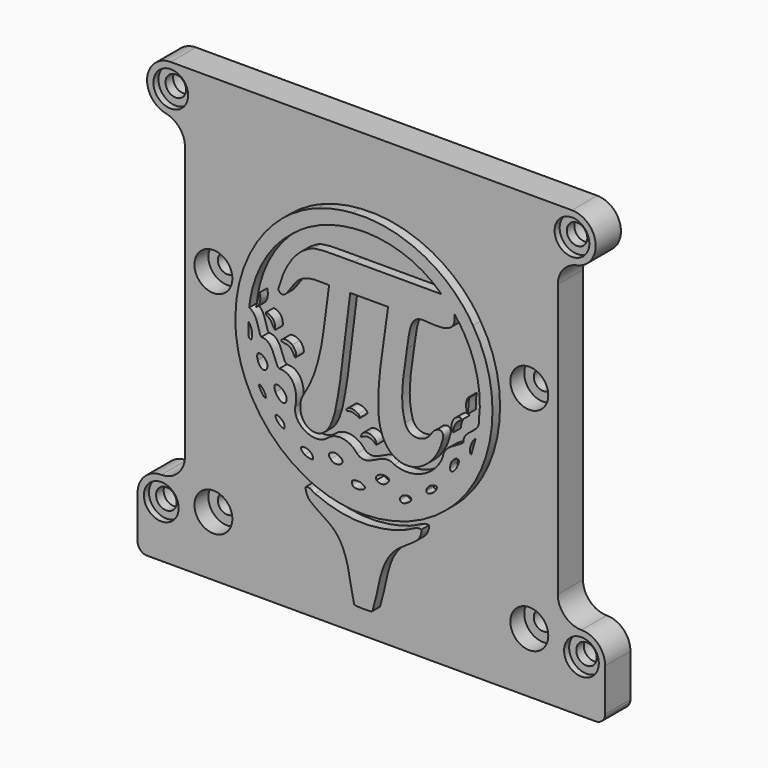
from build123d import *

# Parameters (mm, degrees)
PAD_DEPTH       = 10
FILLET_R        = 3
SKETCH003_W     = 71
SKETCH003_H     = 7
POCKET_DEPTH    = 3
SKETCH004_W     = 56
SKETCH004_H     = 3.5
POCKET001_DEPTH = 3
SKETCH007_R     = 3.25
POCKET003_DEPTH = 10.001
SKETCH008_R     = 4.5
POCKET004_DEPTH = 5
SKETCH009_R     = 3
POCKET005_DEPTH = 10.001
SKETCH013_R     = 5.5
POCKET006_DEPTH = 2
SKETCH014_R     = 6
POCKET007_DEPTH = 5.5
PAD001_DEPTH    = 3


with BuildPart() as part:
    # Sketch → Pad (new body)
    with BuildSketch(Plane.XZ):
        with BuildLine():
            Line((0, -70), (74, -70))
            Line((74, -70), (74, -53.5))
            ThreePointArc((74, -53.5), (71.803301, -48.196699), (66.5, -46))
            ThreePointArc((59, -38.5), (61.196699, -43.803301), (66.5, -46))
            Line((59, -38.5), (59, 47.803062))
            ThreePointArc((65, 55.151531), (60.690525, 52.546478), (59, 47.803062))
            ThreePointArc((65, 55.151531), (70.962021, 63.253817), (63.5, 70))
            Line((63.5, 70), (0, 70))
            Line((0, 70), (0, -70))
        make_face()
    extrude(amount=PAD_DEPTH)

    # Fillet
    fillet_edges = [part.edges().sort_by_distance(p)[0] for p in [
        (74, -5, -70),
    ]]
    fillet(fillet_edges, radius=FILLET_R)

    # Sketch003 → Pocket (cut)
    with BuildSketch(Plane(origin=(0, 0, 0), x_dir=(1, 0, 0), z_dir=(0, 1, 0))):
        with Locations((35.5, 63.5)):
            Rectangle(SKETCH003_W, SKETCH003_H)
    extrude(amount=-POCKET_DEPTH, mode=Mode.SUBTRACT)

    # Sketch004 (on Face2 of Pocket) → Pocket001 (cut)
    with BuildSketch(Plane(origin=(0, 0, 0), x_dir=(1, 0, 0), z_dir=(0, 1, 0))):
        with Locations((28, -65.25)):
            Rectangle(SKETCH004_W, SKETCH004_H)
    extrude(amount=-POCKET001_DEPTH, mode=Mode.SUBTRACT)

    # Sketch007 → Pocket003 (cut, through all)
    with BuildSketch(Plane.XZ.offset(10)):
        with Locations((63.5, 62.5)):
            Circle(SKETCH007_R)
        with Locations((66.5, -53.5)):
            Circle(SKETCH007_R)
    extrude(amount=-POCKET003_DEPTH, mode=Mode.SUBTRACT)

    # Sketch008 (on Face2 of Pocket003) → Pocket004 (cut)
    with BuildSketch(Plane(origin=(0, 0, 0), x_dir=(1, 0, 0), z_dir=(0, 1, 0))):
        with Locations((63.5, -62.5)):
            Circle(SKETCH008_R)
        with Locations((66.5, 53.5)):
            Circle(SKETCH008_R)
    extrude(amount=-POCKET004_DEPTH, mode=Mode.SUBTRACT)

    # Sketch009 (on Face2 of Pocket004) → Pocket005 (cut, through all)
    with BuildSketch(Plane(origin=(0, 0, 0), x_dir=(1, 0, 0), z_dir=(0, 1, 0))):
        with Locations((50, 51)):
            Circle(SKETCH009_R)
        with Locations((50, -16)):
            Circle(SKETCH009_R)
    extrude(amount=-POCKET005_DEPTH, mode=Mode.SUBTRACT)

    # Sketch013 (on Face5 of Pocket005) → Pocket006 (cut)
    with BuildSketch(Plane.XZ.offset(10)):
        with Locations((63.5, 62.5)):
            Circle(SKETCH013_R)
        with Locations((66.5, -53.5)):
            Circle(SKETCH013_R)
    extrude(amount=-POCKET006_DEPTH, mode=Mode.SUBTRACT)

    # Sketch014 (on Face5 of Pocket006) → Pocket007 (cut)
    with BuildSketch(Plane.XZ.offset(10)):
        with Locations((50, 16)):
            Circle(SKETCH014_R)
        with Locations((50, -51)):
            Circle(SKETCH014_R)
    extrude(amount=-POCKET007_DEPTH, mode=Mode.SUBTRACT)

    # Mirrored: part across YZ


with BuildPart() as part_1:
    add(part.part)
    add(part.part.mirror(Plane.YZ))

    # Sketch015 (on Face53 of Mirrored) → Pad001 (join)
    with BuildSketch(Plane.XZ.offset(10)):
        with BuildLine():
            add(Edge.make_bspline(
                [(-3.54702, 48.6755), (11.354, 49.9365), (26.7371, 42.5775), (34.5548, 29.7245)],
                knots=[0, 0, 0, 0, 1, 1, 1, 1], degree=3))
            add(Edge.make_bspline(
                [(34.5548, 29.7245), (45.3795, 12.8205), (41.6429, -11.6595), (26.1343, -24.4545)],
                knots=[0, 0, 0, 0, 1, 1, 1, 1], degree=3))
            add(Edge.make_bspline(
                [(26.1343, -24.4545), (14.0333, -34.9755), (-4.56552, -37.4015), (-18.6996, -29.5935)],
                knots=[0, 0, 0, 0, 1, 1, 1, 1], degree=3))
            add(Edge.make_bspline(
                [(-18.6996, -29.5935), (-32.2816, -22.5035), (-41.0956, -7.44449), (-40.6133, 7.8715)],
                knots=[0, 0, 0, 0, 1, 1, 1, 1], degree=3))
            add(Edge.make_bspline(
                [(-40.6133, 7.8715), (-40.5527, 24.3435), (-30.3051, 40.8905), (-14.4562, 46.4165)],
                knots=[0, 0, 0, 0, 1, 1, 1, 1], degree=3))
            add(Edge.make_bspline(
                [(-14.4562, 46.4165), (-10.9519, 47.6845), (-7.26362, 48.4265), (-3.54702, 48.6755)],
                knots=[0, 0, 0, 0, 1, 1, 1, 1], degree=3))
        make_face()
        with BuildLine():
            add(Edge.make_bspline(
                [(24.5915, 35.1745), (12.0188, 47.2425), (-9.43811, 47.7455), (-22.7442, 36.5815)],
                knots=[0, 0, 0, 0, 1, 1, 1, 1], degree=3))
            add(Edge.make_bspline(
                [(-22.7442, 36.5815), (-30.4572, 30.5925), (-35.3308, 21.3285), (-36.2719, 11.6475)],
                knots=[0, 0, 0, 0, 1, 1, 1, 1], degree=3))
            add(Edge.make_bspline(
                [(-36.2719, 11.6475), (-33.418, 10.3105), (-33.6197, 6.1765), (-32.4947, 4.6795)],
                knots=[0, 0, 0, 0, 1, 1, 1, 1], degree=3))
            add(Edge.make_bspline(
                [(-32.4947, 4.6795), (-28.2821, 4.7865), (-28.4583, -1.2075), (-26.7812, -2.2895)],
                knots=[0, 0, 0, 0, 1, 1, 1, 1], degree=3))
            add(Edge.make_bspline(
                [(-26.7812, -2.2895), (-22.005, -2.0605), (-20.7061, -7.59549), (-21.721, -11.3065)],
                knots=[0, 0, 0, 0, 1, 1, 1, 1], degree=3))
            add(Edge.make_bspline(
                [(-21.721, -11.3065), (-22.2473, -16.3985), (-15.6726, -19.7765), (-11.6669, -16.8185)],
                knots=[0, 0, 0, 0, 1, 1, 1, 1], degree=3))
            add(Edge.make_bspline(
                [(-11.6669, -16.8185), (-8.84581, -14.0895), (-4.36902, -14.8805), (-2.14842, -17.9405)],
                knots=[0, 0, 0, 0, 1, 1, 1, 1], degree=3))
            add(Edge.make_bspline(
                [(-2.14842, -17.9405), (1.67729, -21.3905), (5.45828, -14.3855), (9.68906, -17.1675)],
                knots=[0, 0, 0, 0, 1, 1, 1, 1], degree=3))
            add(Edge.make_bspline(
                [(9.68906, -17.1675), (15.6699, -19.6005), (22.8692, -15.9845), (25.027, -10.0135)],
                knots=[0, 0, 0, 0, 1, 1, 1, 1], degree=3))
            add(Edge.make_bspline(
                [(25.027, -10.0135), (25.5284, -6.2405), (29.8815, -5.6765), (31.5063, -3.8625)],
                knots=[0, 0, 0, 0, 1, 1, 1, 1], degree=3))
            add(Edge.make_bspline(
                [(31.5063, -3.8625), (31.5704, 0.031502), (36.6966, 0.062502), (36.4254, 3.5875)],
                knots=[0, 0, 0, 0, 1, 1, 1, 1], degree=3))
            add(Edge.make_bspline(
                [(36.4254, 3.5875), (37.741, 13.2945), (34.88, 23.5025), (28.6178, 31.0475)],
                knots=[0, 0, 0, 0, 1, 1, 1, 1], degree=3))
            add(Edge.make_bspline(
                [(28.6178, 31.0475), (29.8404, 24.6275), (22.8123, 25.9035), (18.7781, 26.0615)],
                knots=[0, 0, 0, 0, 1, 1, 1, 1], degree=3))
            add(Edge.make_bspline(
                [(18.7781, 26.0615), (14.4084, 26.1415), (14.4902, 21.1145), (13.6768, 16.4545)],
                knots=[0, 0, 0, 0, 1, 1, 1, 1], degree=3))
            add(Edge.make_bspline(
                [(13.6768, 16.4545), (12.7771, 9.4845), (11.0725, 2.42451), (13.0734, -4.4275)],
                knots=[0, 0, 0, 0, 1, 1, 1, 1], degree=3))
            add(Edge.make_bspline(
                [(13.0734, -4.4275), (14.197, -8.2745), (19.0558, -8.1655), (21.2104, -5.0405)],
                knots=[0, 0, 0, 0, 1, 1, 1, 1], degree=3))
            add(Edge.make_bspline(
                [(21.2104, -5.0405), (22.8586, -1.9515), (26.2022, -2.1625), (24.8171, -5.6645)],
                knots=[0, 0, 0, 0, 1, 1, 1, 1], degree=3))
            add(Edge.make_bspline(
                [(24.8171, -5.6645), (23.477, -11.3165), (18.2389, -17.2155), (11.8706, -15.9285)],
                knots=[0, 0, 0, 0, 1, 1, 1, 1], degree=3))
            add(Edge.make_bspline(
                [(11.8706, -15.9285), (6.04148, -14.4335), (4.49368, -7.66449), (4.64438, -2.4315)],
                knots=[0, 0, 0, 0, 1, 1, 1, 1], degree=3))
            add(Edge.make_bspline(
                [(4.64438, -2.4315), (4.37088, 7.2025), (6.70068, 16.6135), (7.690685, 26.139366)],
                knots=[0, 0, 0, 0, 1, 1, 1, 1], degree=3))
            Line((7.690685, 26.139366), (-4.295715, 26.139366))
            add(Edge.make_bspline(
                [(-4.295715, 26.139366), (-5.96042, 14.5205), (-6.67002, 2.73951), (-9.15121, -8.7465)],
                knots=[0, 0, 0, 0, 1, 1, 1, 1], degree=3))
            add(Edge.make_bspline(
                [(-9.15121, -8.7465), (-9.99571, -11.9685), (-11.621, -16.7665), (-15.7745, -16.3545)],
                knots=[0, 0, 0, 0, 1, 1, 1, 1], degree=3))
            add(Edge.make_bspline(
                [(-15.7745, -16.3545), (-20.0093, -15.7955), (-21.1894, -10.2795), (-19.0926, -7.0705)],
                knots=[0, 0, 0, 0, 1, 1, 1, 1], degree=3))
            add(Edge.make_bspline(
                [(-19.0926, -7.0705), (-12.7693, 2.82551), (-12.7548, 14.9195), (-10.9747, 26.1375)],
                knots=[0, 0, 0, 0, 1, 1, 1, 1], degree=3))
            add(Edge.make_bspline(
                [(-10.9747, 26.1375), (-14.2385, 26.1835), (-17.8584, 26.6065), (-20.5893, 24.4235)],
                knots=[0, 0, 0, 0, 1, 1, 1, 1], degree=3))
            add(Edge.make_bspline(
                [(-20.5893, 24.4235), (-22.9099, 22.7715), (-25.0281, 16.1475), (-27.0962, 19.7735)],
                knots=[0, 0, 0, 0, 1, 1, 1, 1], degree=3))
            add(Edge.make_bspline(
                [(-27.0962, 19.7735), (-25.5139, 25.6615), (-22.2609, 32.5885), (-15.8704, 34.7715)],
                knots=[0, 0, 0, 0, 1, 1, 1, 1], degree=3))
            add(Edge.make_bspline(
                [(-15.8704, 34.7715), (-11.6587, 35.5575), (-7.31612, 35.0195), (-3.04422, 35.1785)],
                knots=[0, 0, 0, 0, 1, 1, 1, 1], degree=3))
            add(Edge.make_bspline(
                [(-3.04422, 35.1785), (6.16688, 35.1755), (15.3844, 35.1835), (24.5915, 35.1745)],
                knots=[0, 0, 0, 0, 1, 1, 1, 1], degree=3))
        make_face(mode=Mode.SUBTRACT)
        with BuildLine():
            add(Edge.make_bspline(
                [(-36.5195, 7.6645), (-36.3167, 6.2335), (-37.0896, 2.81351), (-35.6352, 2.95051)],
                knots=[0, 0, 0, 0, 1, 1, 1, 1], degree=3))
            add(Edge.make_bspline(
                [(-35.6352, 2.95051), (-34.9121, 4.3975), (-35.4662, 6.5095), (-36.5195, 7.6645)],
                knots=[0, 0, 0, 0, 1, 1, 1, 1], degree=3))
        make_face(mode=Mode.SUBTRACT)
        with BuildLine():
            add(Edge.make_bspline(
                [(-30.8682, -3.8815), (-28.9685, -1.1765), (-34.9148, 2.36551), (-33.5368, -2.2145)],
                knots=[0, 0, 0, 0, 1, 1, 1, 1], degree=3))
            add(Edge.make_bspline(
                [(-33.5368, -2.2145), (-33.2426, -3.2075), (-32.0481, -5.0195), (-30.8682, -3.8815)],
                knots=[0, 0, 0, 0, 1, 1, 1, 1], degree=3))
        make_face(mode=Mode.SUBTRACT)
        with BuildLine():
            add(Edge.make_bspline(
                [(34.0215, -6.4835), (34.4799, -4.8455), (34.9385, -3.2085), (35.397, -1.5705)],
                knots=[0, 0, 0, 0, 1, 1, 1, 1], degree=3))
            add(Edge.make_bspline(
                [(35.397, -1.5705), (34.228, -2.3735), (32.8346, -5.8235), (34.0215, -6.4835)],
                knots=[0, 0, 0, 0, 1, 1, 1, 1], degree=3))
        make_face(mode=Mode.SUBTRACT)
        with BuildLine():
            add(Edge.make_bspline(
                [(-24.7767, -11.1505), (-22.8059, -8.2355), (-29.8872, -4.4345), (-27.9463, -9.2115)],
                knots=[0, 0, 0, 0, 1, 1, 1, 1], degree=3))
            add(Edge.make_bspline(
                [(-27.9463, -9.2115), (-27.4096, -10.2015), (-26.0443, -12.1015), (-24.7767, -11.1505)],
                knots=[0, 0, 0, 0, 1, 1, 1, 1], degree=3))
        make_face(mode=Mode.SUBTRACT)
        with BuildLine():
            add(Edge.make_bspline(
                [(-31.0175, -11.7865), (-30.9308, -9.6485), (-34.7406, -6.8085), (-32.5035, -10.4275)],
                knots=[0, 0, 0, 0, 1, 1, 1, 1], degree=3))
            add(Edge.make_bspline(
                [(-32.5035, -10.4275), (-32.1244, -10.8195), (-31.7651, -12.0435), (-31.0175, -11.7865)],
                knots=[0, 0, 0, 0, 1, 1, 1, 1], degree=3))
        make_face(mode=Mode.SUBTRACT)
        with BuildLine():
            add(Edge.make_bspline(
                [(29.6376, -9.0635), (26.707, -9.4655), (26.5155, -16.0125), (29.2882, -11.8095)],
                knots=[0, 0, 0, 0, 1, 1, 1, 1], degree=3))
            add(Edge.make_bspline(
                [(29.2882, -11.8095), (29.5612, -11.1455), (30.7726, -9.5075), (29.6376, -9.0635)],
                knots=[0, 0, 0, 0, 1, 1, 1, 1], degree=3))
        make_face(mode=Mode.SUBTRACT)
        with BuildLine():
            add(Edge.make_bspline(
                [(-25.1226, -18.4695), (-24.3196, -16.0335), (-29.9585, -13.6785), (-27.2356, -17.2445)],
                knots=[0, 0, 0, 0, 1, 1, 1, 1], degree=3))
            add(Edge.make_bspline(
                [(-27.2356, -17.2445), (-26.6911, -17.7945), (-26.0068, -18.6425), (-25.1226, -18.4695)],
                knots=[0, 0, 0, 0, 1, 1, 1, 1], degree=3))
        make_face(mode=Mode.SUBTRACT)
        with BuildLine():
            add(Edge.make_bspline(
                [(22.1825, -18.9015), (19.58, -19.2885), (18.4956, -23.4845), (21.9791, -20.9625)],
                knots=[0, 0, 0, 0, 1, 1, 1, 1], degree=3))
            add(Edge.make_bspline(
                [(21.9791, -20.9625), (22.649, -20.5975), (24.126, -18.4365), (22.1825, -18.9015)],
                knots=[0, 0, 0, 0, 1, 1, 1, 1], degree=3))
        make_face(mode=Mode.SUBTRACT)
        with BuildLine():
            add(Edge.make_bspline(
                [(-10.5129, -22.1345), (-8.72931, -24.4265), (-4.44802, -21.6365), (-8.23512, -20.2125)],
                knots=[0, 0, 0, 0, 1, 1, 1, 1], degree=3))
            add(Edge.make_bspline(
                [(-8.23512, -20.2125), (-9.45181, -19.5815), (-12.2087, -20.5185), (-10.5129, -22.1345)],
                knots=[0, 0, 0, 0, 1, 1, 1, 1], degree=3))
        make_face(mode=Mode.SUBTRACT)
        with BuildLine():
            add(Edge.make_bspline(
                [(4.00828, -23.3345), (6.43188, -25.5155), (10.5289, -20.6725), (5.86478, -21.2685)],
                knots=[0, 0, 0, 0, 1, 1, 1, 1], degree=3))
            add(Edge.make_bspline(
                [(5.86478, -21.2685), (4.98998, -21.3665), (3.20288, -22.1935), (4.00828, -23.3345)],
                knots=[0, 0, 0, 0, 1, 1, 1, 1], degree=3))
        make_face(mode=Mode.SUBTRACT)
        with BuildLine():
            add(Edge.make_bspline(
                [(-16.0817, -24.1665), (-15.6276, -20.9695), (-22.6108, -20.6885), (-18.6884, -23.6515)],
                knots=[0, 0, 0, 0, 1, 1, 1, 1], degree=3))
            add(Edge.make_bspline(
                [(-18.6884, -23.6515), (-17.8959, -24.0675), (-16.9755, -24.2775), (-16.0817, -24.1665)],
                knots=[0, 0, 0, 0, 1, 1, 1, 1], degree=3))
        make_face(mode=Mode.SUBTRACT)
        with BuildLine():
            add(Edge.make_bspline(
                [(13.3361, -24.6045), (10.4822, -25.0105), (11.0835, -28.3765), (13.8761, -26.4035)],
                knots=[0, 0, 0, 0, 1, 1, 1, 1], degree=3))
            add(Edge.make_bspline(
                [(13.8761, -26.4035), (15.6163, -25.6025), (15.3396, -23.9265), (13.3361, -24.6045)],
                knots=[0, 0, 0, 0, 1, 1, 1, 1], degree=3))
        make_face(mode=Mode.SUBTRACT)
        with BuildLine():
            add(Edge.make_bspline(
                [(-3.64922, -25.9875), (-4.81112, -29.4635), (3.69748, -27.0455), (-1.15682, -25.5805)],
                knots=[0, 0, 0, 0, 1, 1, 1, 1], degree=3))
            add(Edge.make_bspline(
                [(-1.15682, -25.5805), (-1.97882, -25.4765), (-2.97172, -25.4085), (-3.64922, -25.9875)],
                knots=[0, 0, 0, 0, 1, 1, 1, 1], degree=3))
        make_face(mode=Mode.SUBTRACT)
        with BuildLine():
            add(Edge.make_bspline(
                [(18.3036, -32.4215), (18.2997, -33.3795), (17.8851, -34.8515), (17.2307, -35.5745)],
                knots=[0, 0, 0, 0, 1, 1, 1, 1], degree=3))
            add(Edge.make_bspline(
                [(17.2307, -35.5745), (15.8002, -37.1585), (12.2868, -38.9465), (10.4397, -40.5735)],
                knots=[0, 0, 0, 0, 1, 1, 1, 1], degree=3))
            add(Edge.make_bspline(
                [(10.4397, -40.5735), (4.66858, -45.6595), (5.03988, -53.3285), (2.78018, -60.1785)],
                knots=[0, 0, 0, 0, 1, 1, 1, 1], degree=3))
            add(Edge.make_bspline(
                [(2.78018, -60.1785), (2.60138, -60.5125), (2.02959, -60.5065), (1.70729, -60.5305)],
                knots=[0, 0, 0, 0, 1, 1, 1, 1], degree=3))
            add(Edge.make_bspline(
                [(1.70729, -60.5305), (1.03329, -60.5775), (-2.80232, -60.6245), (-3.02242, -60.3295)],
                knots=[0, 0, 0, 0, 1, 1, 1, 1], degree=3))
            add(Edge.make_bspline(
                [(-3.02242, -60.3295), (-4.71822, -53.9865), (-4.62972, -45.8595), (-9.79371, -41.1635)],
                knots=[0, 0, 0, 0, 1, 1, 1, 1], degree=3))
            add(Edge.make_bspline(
                [(-9.79371, -41.1635), (-11.8648, -39.2785), (-15.7398, -37.3785), (-17.3707, -35.5745)],
                knots=[0, 0, 0, 0, 1, 1, 1, 1], degree=3))
            add(Edge.make_bspline(
                [(-17.3707, -35.5745), (-17.8718, -35.0185), (-18.4514, -33.4645), (-18.4495, -32.7175)],
                knots=[0, 0, 0, 0, 1, 1, 1, 1], degree=3))
            add(Edge.make_bspline(
                [(-18.4495, -32.7175), (-18.4495, -32.2025), (-17.5633, -32.3835), (-17.2096, -32.4665)],
                knots=[0, 0, 0, 0, 1, 1, 1, 1], degree=3))
            add(Edge.make_bspline(
                [(-17.2096, -32.4665), (-16.5651, -32.6175), (-15.9913, -33.1975), (-15.4332, -33.4385)],
                knots=[0, 0, 0, 0, 1, 1, 1, 1], degree=3))
            add(Edge.make_bspline(
                [(-15.4332, -33.4385), (-6.42972, -37.3635), (2.97668, -37.8345), (12.3104, -34.5865)],
                knots=[0, 0, 0, 0, 1, 1, 1, 1], degree=3))
            add(Edge.make_bspline(
                [(12.3104, -34.5865), (13.7409, -34.0895), (15.7314, -32.8315), (16.9183, -32.5135)],
                knots=[0, 0, 0, 0, 1, 1, 1, 1], degree=3))
            add(Edge.make_bspline(
                [(16.9183, -32.5135), (17.384, -32.3895), (17.8281, -32.4015), (18.3036, -32.4215)],
                knots=[0, 0, 0, 0, 1, 1, 1, 1], degree=3))
        make_face()
        with BuildLine():
            add(Edge.make_bspline(
                [(-21.7801, 2.36151), (-22.0081, 3.06451), (-22.686, 4.2515), (-23.2539, 4.7215)],
                knots=[0, 0, 0, 0, 1, 1, 1, 1], degree=3))
            add(Edge.make_bspline(
                [(-23.2539, 4.7215), (-24.0222, 5.3555), (-24.7571, 5.2555), (-25.6452, 5.4775)],
                knots=[0, 0, 0, 0, 1, 1, 1, 1], degree=3))
            add(Edge.make_bspline(
                [(-25.6452, 5.4775), (-25.8457, 5.5265), (-26.2662, 5.4025), (-26.1031, 5.7975)],
                knots=[0, 0, 0, 0, 1, 1, 1, 1], degree=3))
            add(Edge.make_bspline(
                [(-26.1031, 5.7975), (-25.6099, 6.9985), (-23.4779, 6.3535), (-22.6663, 5.7015)],
                knots=[0, 0, 0, 0, 1, 1, 1, 1], degree=3))
            add(Edge.make_bspline(
                [(-22.6663, 5.7015), (-21.9, 5.0865), (-20.7839, 3.1015), (-21.7801, 2.36151)],
                knots=[0, 0, 0, 0, 1, 1, 1, 1], degree=3))
        make_face()
        with BuildLine():
            add(Edge.make_bspline(
                [(3.95718, -13.5575), (2.41668, -12.1545), (0.964582, -11.5685), (-0.857022, -12.9655)],
                knots=[0, 0, 0, 0, 1, 1, 1, 1], degree=3))
            add(Edge.make_bspline(
                [(-0.857022, -12.9655), (-0.821622, -10.0005), (4.22248, -10.7705), (3.95718, -13.5575)],
                knots=[0, 0, 0, 0, 1, 1, 1, 1], degree=3))
        make_face()
        with BuildLine():
            add(Edge.make_bspline(
                [(28.323, -2.1605), (27.0144, -1.2095), (27.9929, 1.4675), (29.1189, 2.25351)],
                knots=[0, 0, 0, 0, 1, 1, 1, 1], degree=3))
            add(Edge.make_bspline(
                [(29.1189, 2.25351), (29.7142, 2.66951), (30.6319, 3.01951), (31.072, 2.26051)],
                knots=[0, 0, 0, 0, 1, 1, 1, 1], degree=3))
            add(Edge.make_bspline(
                [(31.072, 2.26051), (29.3153, 1.3885), (28.3663, -0.201498), (28.323, -2.1605)],
                knots=[0, 0, 0, 0, 1, 1, 1, 1], degree=3))
        make_face()
        with BuildLine():
            add(Edge.make_bspline(
                [(-28.072, 8.0575), (-28.8246, 8.7495), (-29.0113, 9.8455), (-29.7619, 10.5905)],
                knots=[0, 0, 0, 0, 1, 1, 1, 1], degree=3))
            add(Edge.make_bspline(
                [(-29.7619, 10.5905), (-30.2472, 11.0715), (-31.157, 11.1765), (-31.0175, 11.9855)],
                knots=[0, 0, 0, 0, 1, 1, 1, 1], degree=3))
            add(Edge.make_bspline(
                [(-31.0175, 11.9855), (-28.9641, 12.1135), (-27.7576, 9.9085), (-28.072, 8.0575)],
                knots=[0, 0, 0, 0, 1, 1, 1, 1], degree=3))
        make_face()
        with BuildLine():
            add(Edge.make_bspline(
                [(-1.34822, -7.85849), (-2.11122, -7.47449), (-2.86562, -7.0125), (-3.72702, -6.8925)],
                knots=[0, 0, 0, 0, 1, 1, 1, 1], degree=3))
            add(Edge.make_bspline(
                [(-3.72702, -6.8925), (-4.03792, -6.8365), (-4.36032, -6.8555), (-4.66082, -6.9535)],
                knots=[0, 0, 0, 0, 1, 1, 1, 1], degree=3))
            add(Edge.make_bspline(
                [(-4.66082, -6.9535), (-4.90152, -7.0125), (-5.15242, -7.0785), (-5.40102, -7.0275)],
                knots=[0, 0, 0, 0, 1, 1, 1, 1], degree=3))
            add(Edge.make_bspline(
                [(-5.40102, -7.0275), (-5.56332, -6.9355), (-5.47292, -6.7315), (-5.39412, -6.6125)],
                knots=[0, 0, 0, 0, 1, 1, 1, 1], degree=3))
            add(Edge.make_bspline(
                [(-5.39412, -6.6125), (-5.14202, -6.1645), (-4.60602, -5.9585), (-4.11102, -5.9635)],
                knots=[0, 0, 0, 0, 1, 1, 1, 1], degree=3))
            add(Edge.make_bspline(
                [(-4.11102, -5.9635), (-3.27172, -5.9595), (-2.44762, -6.2725), (-1.77952, -6.7715)],
                knots=[0, 0, 0, 0, 1, 1, 1, 1], degree=3))
            add(Edge.make_bspline(
                [(-1.77952, -6.7715), (-1.54202, -6.9635), (-1.30092, -7.2065), (-1.25532, -7.52249)],
                knots=[0, 0, 0, 0, 1, 1, 1, 1], degree=3))
            add(Edge.make_bspline(
                [(-1.25532, -7.52249), (-1.24532, -7.64049), (-1.27262, -7.76549), (-1.34822, -7.85849)],
                knots=[0, 0, 0, 0, 1, 1, 1, 1], degree=3))
        make_face()
        with BuildLine():
            add(Edge.make_bspline(
                [(33.434, 9.2365), (33.037, 7.8535), (33.092, 6.6095), (33.041, 5.2085)],
                knots=[0, 0, 0, 0, 1, 1, 1, 1], degree=3))
            add(Edge.make_bspline(
                [(33.041, 5.2085), (33.0331, 4.9705), (33.1883, 4.4775), (32.8464, 4.5245)],
                knots=[0, 0, 0, 0, 1, 1, 1, 1], degree=3))
            add(Edge.make_bspline(
                [(32.8464, 4.5245), (32.3355, 5.9765), (32.1174, 7.0235), (32.703, 8.4995)],
                knots=[0, 0, 0, 0, 1, 1, 1, 1], degree=3))
            add(Edge.make_bspline(
                [(32.703, 8.4995), (32.813, 8.7745), (33.0115, 9.3725), (33.432, 9.2385)],
                knots=[0, 0, 0, 0, 1, 1, 1, 1], degree=3))
            Line((33.432, 9.2385), (33.434, 9.2365))
        make_face()
        with BuildLine():
            add(Edge.make_bspline(
                [(-32.984473, 16.898049), (-32.5148, 15.3555), (-32.7329, 13.3415), (-34.1595, 12.3805)],
                knots=[0, 0, 0, 0, 1, 1, 1, 1], degree=3))
            Line((-34.1595, 12.3805), (-32.984473, 16.898049))
        make_face()
    extrude(amount=PAD001_DEPTH)


solid = part_1.part
